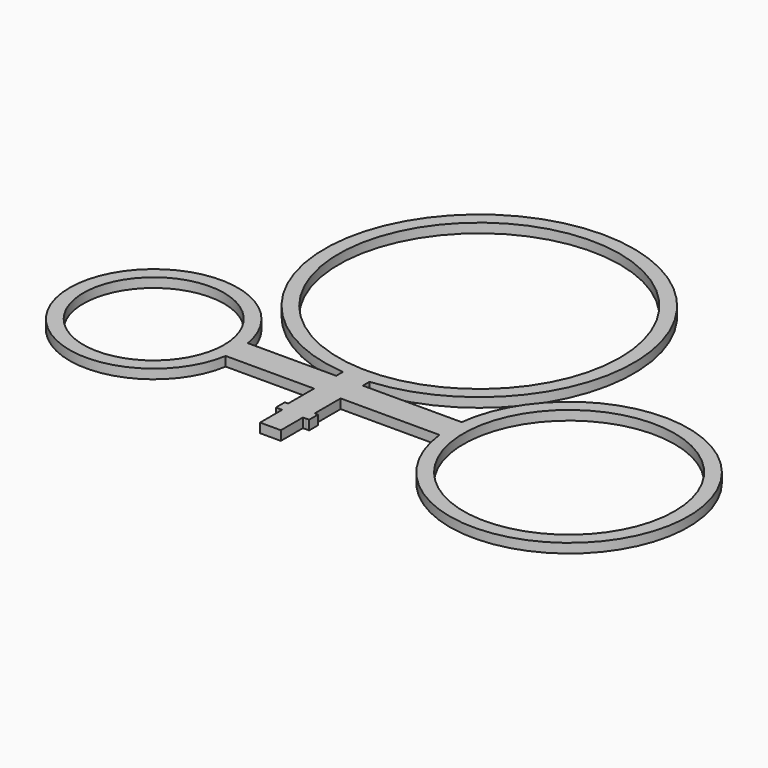
from build123d import *

# Parameters (mm, degrees)
SKETCH_R      = 25.4
SKETCH_R_2    = 19.05
SKETCH_R_3    = 12.7
SKETCH_W      = 6
SKETCH_H      = 2
PAD_DEPTH     = 1.7
SKETCH001_W   = 1.720414
SKETCH001_H   = 4.989207
SKETCH001_W_2 = 2.270946
POCKET_DEPTH  = 5


with BuildPart() as part:
    # Sketch → Pad (new body)
    with BuildSketch(Plane.XY):
        with BuildLine():
            Line((-2.4, 19.353417), (-2.4, 17.852674))
            Line((-2.4, 17.852674), (-18.357101, 17.852674))
            ThreePointArc((-18.357101, 17.852674), (-48.5501, 15.352674), (-18.357101, 12.852674))
            Line((-18.357101, 12.852674), (-2.4, 12.852674))
            Line((-2.4, 12.852674), (-2.4, 0))
            Line((-2.4, 0), (2.4, 0))
            Line((2.4, 0), (2.4, 12.852674))
            Line((2.4, 12.852674), (20.245403, 12.852674))
            ThreePointArc((20.245403, 12.852674), (63.1999, 15.352674), (20.245403, 17.852674))
            Line((20.245403, 17.852674), (2.4, 17.852674))
            Line((2.4, 17.852674), (2.4, 19.353417))
            ThreePointArc((2.4, 19.353417), (0, 75.05), (-2.4, 19.353417))
        make_face()
        with Locations((0, 47.15)):
            Circle(SKETCH_R, mode=Mode.SUBTRACT)
        with Locations((41.6499, 15.352674)):
            Circle(SKETCH_R_2, mode=Mode.SUBTRACT)
        with Locations((-33.3501, 15.352674)):
            Circle(SKETCH_R_3, mode=Mode.SUBTRACT)
        with Locations((0, 6)):
            Rectangle(SKETCH_W, SKETCH_H)
    extrude(amount=PAD_DEPTH)

    # Sketch001 (on Face25 of Pad) → Pocket (cut)
    with BuildSketch(Plane.XY.offset(1.7)):
        with Locations((-2.723439, 2.494603)):
            Rectangle(SKETCH001_W, SKETCH001_H)
        with Locations((3.02274, 2.494603)):
            Rectangle(SKETCH001_W_2, SKETCH001_H)
    extrude(amount=-POCKET_DEPTH, mode=Mode.SUBTRACT)


solid = part.part
